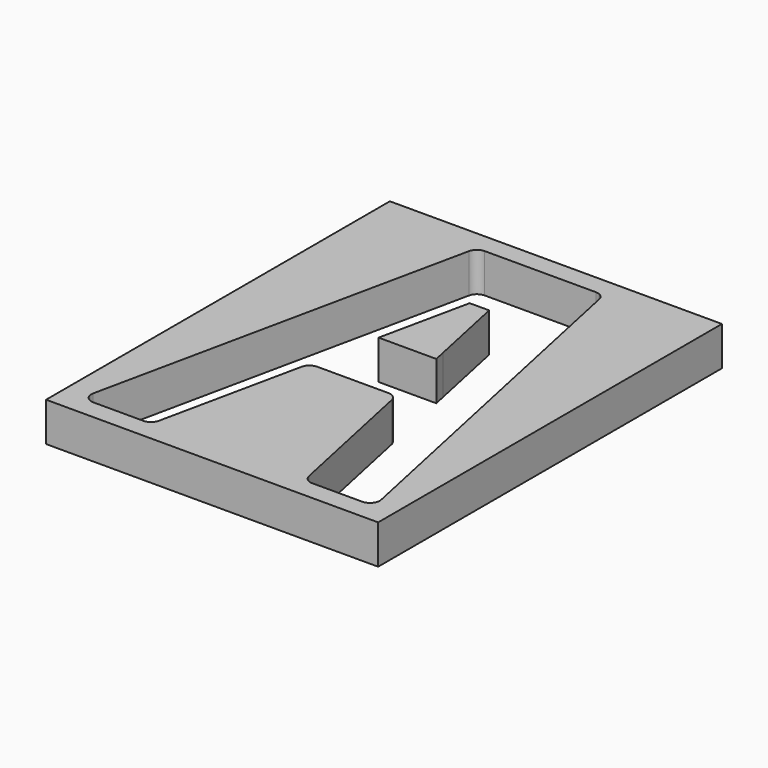
from build123d import *

# Parameters (mm, degrees)
F1_DEPTH = 25.4
F0_W     = 215.9
F0_H     = 279.4


with BuildPart() as f1:
    # F0 (on Top) → F1 (new body)
    with BuildSketch(Plane.XY):
        Polygon((6.3348417142, 91.6622960533), (-6.3348417142, 91.6622960533), (-17.132715047, 40.8622960533), (-18.7630747263, 33.1920568166), (-10.9214777823, 33.1920568166), (0, 33.1920568166), (10.9214777823, 33.1920568166), (18.7630747263, 33.1920568166), (17.132715047, 40.8622960533), align=None)
    extrude(amount=F1_DEPTH)


with BuildPart() as f1b:
    # F0 (on Top) → F1, piece 2 (new body)
    with BuildSketch(Plane.XY):
        with Locations((0, 14.1420568166)):
            Rectangle(F0_W, F0_H)
        with BuildLine():
            Line((-93.6196403207, -105.1877039467), (-42.3297419897, 136.1122960533))
            ThreePointArc((-42.3297419897, 136.1122960533), (-40.1146892082, 139.7269336719), (-36.118504725, 141.1420568166))
            Line((-36.118504725, 141.1420568166), (0, 141.1420568166))
            Line((0, 141.1420568166), (36.118504725, 141.1420568166))
            ThreePointArc((36.118504725, 141.1420568166), (40.1146892082, 139.7269336719), (42.3297419897, 136.1122960533))
            Line((42.3297419897, 136.1122960533), (93.6196403207, -105.1877039467))
            ThreePointArc((93.6196403207, -105.1877039467), (92.3432799113, -110.5041276665), (87.408403056, -112.8579431834))
            Line((87.408403056, -112.8579431834), (54.949089169, -112.8579431834))
            ThreePointArc((54.949089169, -112.8579431834), (50.9529046859, -111.4428200386), (48.7378519044, -107.8281824201))
            Line((48.7378519044, -107.8281824201), (29.2803225464, -16.2877039467))
            ThreePointArc((29.2803225464, -16.2877039467), (27.065269765, -12.6730663281), (23.0690852818, -11.2579431834))
            Line((23.0690852818, -11.2579431834), (0, -11.2579431834))
            Line((0, -11.2579431834), (-23.0690852818, -11.2579431834))
            ThreePointArc((-23.0690852818, -11.2579431834), (-27.065269765, -12.6730663281), (-29.2803225464, -16.2877039467))
            Line((-29.2803225464, -16.2877039467), (-48.7378519044, -107.8281824201))
            ThreePointArc((-48.7378519044, -107.8281824201), (-50.9529046859, -111.4428200386), (-54.949089169, -112.8579431834))
            Line((-54.949089169, -112.8579431834), (-87.408403056, -112.8579431834))
            ThreePointArc((-87.408403056, -112.8579431834), (-92.3432799113, -110.5041276665), (-93.6196403207, -105.1877039467))
        make_face(mode=Mode.SUBTRACT)
    extrude(amount=F1_DEPTH)


solid = Compound([f1.part, f1b.part])
